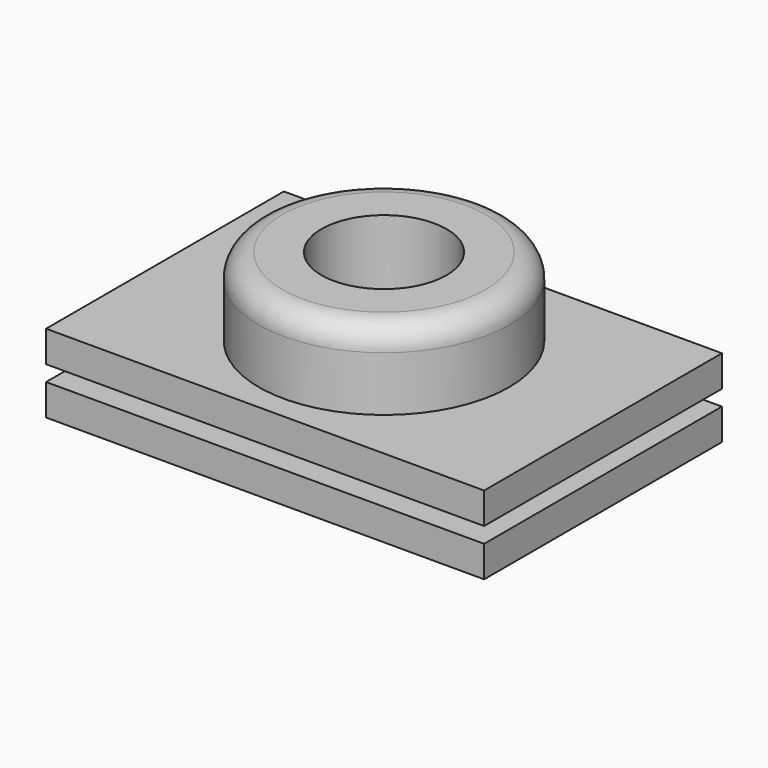
from build123d import *

# Parameters (mm, degrees)
SKETCH004_R  = 4
PAD004_DEPTH = 10
SKETCH001_W  = 28
SKETCH001_H  = 19
PAD001_DEPTH = 2
PAD002_DEPTH = 1
SKETCH003_R  = 8
PAD003_DEPTH = 5
SKETCH_W     = 28
SKETCH_H     = 19
PAD_DEPTH    = 2
FILLET_R     = 1.5


with BuildPart() as body004:
    # Sketch004 → Pad004 (new body)
    with BuildSketch(Plane.XY):
        Circle(SKETCH004_R)
    extrude(amount=PAD004_DEPTH)


with BuildPart() as body001:
    # Sketch001 → Pad001 (new body)
    with BuildSketch(Plane.XY):
        Rectangle(SKETCH001_W, SKETCH001_H)
    extrude(amount=PAD001_DEPTH)


with BuildPart() as body001_1:
    # Body001 placement: moved
    add(body001.part.moved(Location((0, 0, 3))))


with BuildPart() as body002:
    # Sketch002 → Pad002 (new body)
    with BuildSketch(Plane.XY):
        with BuildLine():
            ThreePointArc((-10, 3), (0, -7), (10, 3))
            Line((10, 9.5), (10, 3))
            Line((-10, 9.5), (10, 9.5))
            Line((-10, 3), (-10, 9.5))
        make_face()
    extrude(amount=PAD002_DEPTH)


with BuildPart() as body002_1:
    # Body002 placement: moved
    add(body002.part.moved(Location((0, 0, 2))))


with BuildPart() as body003:
    # Sketch003 → Pad003 (new body)
    with BuildSketch(Plane.XY):
        Circle(SKETCH003_R)
    extrude(amount=PAD003_DEPTH)


with BuildPart() as body003_1:
    # Body003 placement: moved
    add(body003.part.moved(Location((0, 0, 5))))


with BuildPart() as fillet_body:
    # Sketch → Pad (new body)
    with BuildSketch(Plane.XY):
        Rectangle(SKETCH_W, SKETCH_H)
    extrude(amount=PAD_DEPTH)

    # Fusion: union Body001, Body002, Body003
    add(body001_1.part)
    add(body002_1.part)
    add(body003_1.part)

    # Cut: cut Body004
    add(body004.part, mode=Mode.SUBTRACT)

    # Fillet
    fillet_edges = [fillet_body.edges().sort_by_distance(p)[0] for p in [
        (-8, 0, 10),
    ]]
    fillet(fillet_edges, radius=FILLET_R)


solid = fillet_body.part
